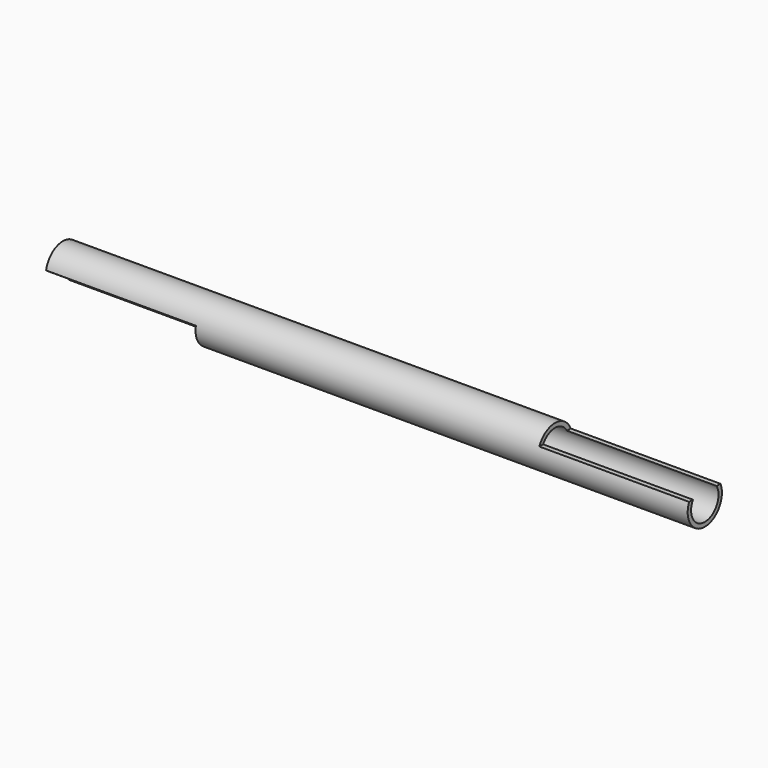
from build123d import *

# Parameters (mm, degrees)
F0_R     = 5
F0_R_2   = 4
F1_DEPTH = 150
F3_DEPTH = 5
F5_W     = 35
F5_H     = 10
F6_DEPTH = 12.5


with BuildPart() as f1:
    # F0 (on Right) → F1 (new body)
    with BuildSketch(Plane.YZ):
        Circle(F0_R)
        Circle(F0_R_2, mode=Mode.SUBTRACT)
    extrude(amount=F1_DEPTH)

    # F2 (on Front) → F3 (cut, symmetric)
    with BuildSketch(Plane.XZ):
        Polygon((115, 2), (150, 2), (150, 5), (150, 12), (115, 12), align=None)
    extrude(amount=F3_DEPTH, both=True, mode=Mode.SUBTRACT)

    # F5 (on face) → F6 (cut, symmetric)
    with BuildSketch(Plane(origin=(0, 0, 0), x_dir=(1, 0, 0), z_dir=(0, -0.821816, 0.569753))):
        with Locations((17.5, -7)):
            Rectangle(F5_W, F5_H)
    extrude(amount=F6_DEPTH, both=True, mode=Mode.SUBTRACT)


solid = f1.part
